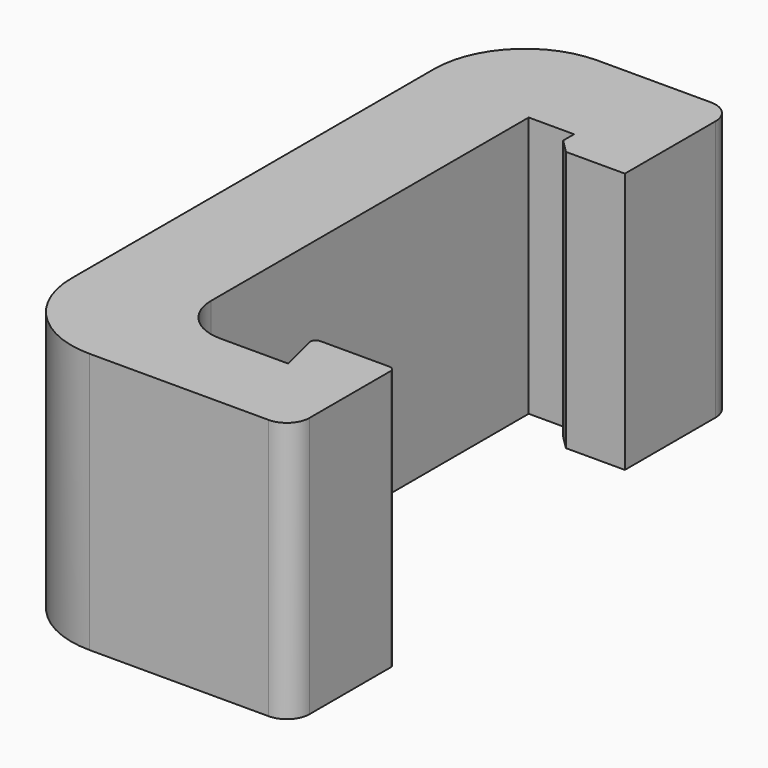
from build123d import *

# Parameters (mm, degrees)
F1_DEPTH = 5.75
F2_R     = 0.5
F3_SIZE  = 0.3
F4_R     = 0.12


with BuildPart() as f1:
    # F0 (on Top) → F1 (new body)
    with BuildSketch(Plane.XY):
        with BuildLine():
            Line((-0.482554, 4.676151), (-0.482554, 4.076151))
            Line((-0.482554, 4.076151), (1.117446, 4.076151))
            Line((1.117446, 4.076151), (1.117446, 7.076151))
            Line((1.117446, 7.076151), (-1.882554, 7.076151))
            ThreePointArc((-1.882554, 7.076151), (-3.296768, 6.490364), (-3.882554, 5.076151))
            Line((-3.882554, 5.076151), (-3.882554, -4.923849))
            ThreePointArc((-3.882554, -4.923849), (-3.296768, -6.338063), (-1.882554, -6.923849))
            Line((-1.882554, -6.923849), (2.567446, -6.923849))
            Line((2.567446, -6.923849), (2.567446, -4.073849))
            Line((2.567446, -4.073849), (0.767446, -4.073849))
            Line((0.767446, -4.073849), (1.017446, -5.073849))
            Line((1.017446, -5.073849), (-0.482554, -5.073849))
            ThreePointArc((-0.482554, -5.073849), (-1.189661, -4.780956), (-1.482554, -4.073849))
            Line((-1.482554, -4.073849), (-1.482554, 4.676151))
            Line((-1.482554, 4.676151), (-0.482554, 4.676151))
        make_face()
    extrude(amount=F1_DEPTH)

    # F2
    f2_edges = [f1.edges().sort_by_distance(p)[0] for p in [
        (2.567446, -6.923849, 2.875),
        (1.117446, 7.076151, 2.875),
    ]]
    fillet(f2_edges, radius=F2_R)

    # F3
    f3_edges = [f1.edges().sort_by_distance(p)[0] for p in [
        (-0.482554, 4.076151, 2.875),
    ]]
    chamfer(f3_edges, length=F3_SIZE)

    # F4
    f4_edges = [f1.edges().sort_by_distance(p)[0] for p in [
        (0.767446, -4.073849, 2.875),
        (2.567446, -4.073849, 2.875),
    ]]
    fillet(f4_edges, radius=F4_R)


solid = f1.part
